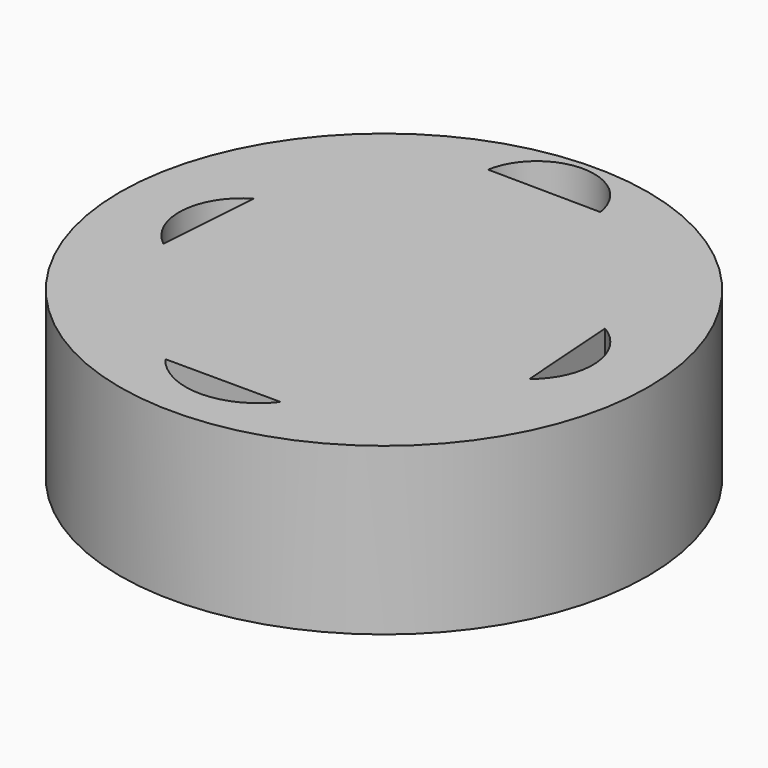
from build123d import *

# Parameters (mm, degrees)
F0_R      = 96.551429
F1_DEPTH  = 60.706
F4_DEPTH  = 16.764
F5_DEPTH  = 18.288
F7_DEPTH  = 29.718
F9_DEPTH  = 24.892
F10_DEPTH = 25.4


with BuildPart() as f1:
    # F0 (on Top) → F1 (new body)
    with BuildSketch(Plane.XY):
        Circle(F0_R)
    extrude(amount=-F1_DEPTH)

    # F3 (on face) → F4 (cut)
    with BuildSketch(Plane.XY):
        with BuildLine():
            Line((0, -72.571998), (0, -82.988975))
            ThreePointArc((0, -82.988975), (11.31764, -80.094339), (20.304218, -72.630472))
            Line((20.304218, -72.630472), (0, -72.571998))
        make_face()
    extrude(amount=-F4_DEPTH, mode=Mode.SUBTRACT)

    # F3 (on face) → F5 (cut)
    with BuildSketch(Plane.XY):
        with BuildLine():
            Line((20.304218, -72.630472), (-21.942582, -72.508805))
            ThreePointArc((-21.942582, -72.508805), (-0.849221, -83.000085), (20.304218, -72.630472))
        make_face()
    extrude(amount=-F5_DEPTH, mode=Mode.SUBTRACT)

    # F6 (on Top) → F7 (cut)
    with BuildSketch(Plane.XY):
        with BuildLine():
            Line((-23.170974, 76.51294), (18.255305, 76.043338))
            ThreePointArc((18.255305, 76.043338), (-2.257895, 93.915969), (-23.170974, 76.51294))
        make_face()
    extrude(amount=-F7_DEPTH, mode=Mode.SUBTRACT)

    # F8 (on Top) → F9 (cut)
    with BuildSketch(Plane.XY):
        with BuildLine():
            Line((64.235799, 20.705102), (66.905841, -17.182859))
            ThreePointArc((66.905841, -17.182859), (75.55273, 2.464567), (64.235799, 20.705102))
        make_face()
        with BuildLine():
            ThreePointArc((-64.235799, 20.705102), (-75.55273, 2.464567), (-66.905841, -17.182859))
            Line((-66.905841, -17.182859), (-64.235799, 20.705102))
        make_face()
    extrude(amount=-F9_DEPTH, mode=Mode.SUBTRACT)

    # F8 (on Top) → F10 (cut)
    with BuildSketch(Plane.XY):
        with BuildLine():
            Line((64.235799, 20.705102), (66.905841, -17.182859))
            ThreePointArc((66.905841, -17.182859), (75.55273, 2.464567), (64.235799, 20.705102))
        make_face()
        with BuildLine():
            ThreePointArc((-64.235799, 20.705102), (-75.55273, 2.464567), (-66.905841, -17.182859))
            Line((-66.905841, -17.182859), (-64.235799, 20.705102))
        make_face()
    extrude(amount=-F10_DEPTH, mode=Mode.SUBTRACT)


solid = f1.part
